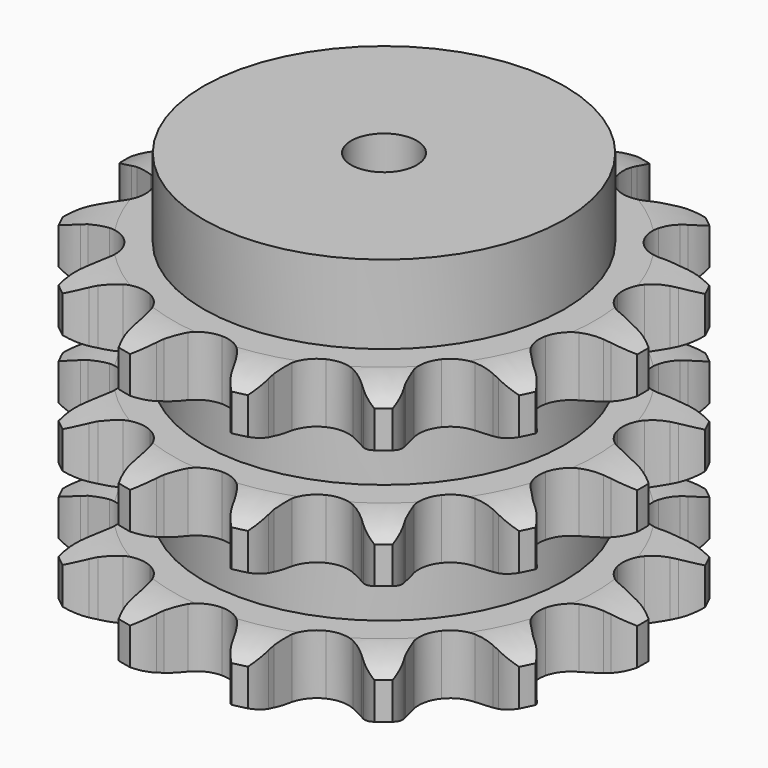
from build123d import *

# Parameters (mm, degrees)
PAD_DEPTH         = 91
SKETCH001_R       = 55
PAD001_DEPTH      = 115
SKETCH002_R       = 10
POCKET_DEPTH      = 0.001
POCKET_DEPTH_BACK = 115.001


with BuildPart() as part:
    # Sprocket → Pad (new body)
    with BuildSketch(Plane.XY):
        with BuildLine():
            ThreePointArc((-18.099318, 79.298294), (-14.280151, 76.270886), (-11.550964, 72.233217))
            Line((-11.550964, 72.233217), (-10.674023, 70.376836))
            ThreePointArc((-10.674023, 70.376836), (-9.212948, 67.717581), (-7.438683, 65.256208))
            ThreePointArc((-7.438683, 65.256208), (-4.115883, 62.656814), (0, 61.730877))
            ThreePointArc((0, 61.730877), (4.115883, 62.656814), (7.438683, 65.256208))
            ThreePointArc((7.438683, 65.256208), (9.212948, 67.717581), (10.674023, 70.376836))
            Line((10.674023, 70.376836), (11.550964, 72.233217))
            ThreePointArc((11.550964, 72.233217), (14.280151, 76.270886), (18.099318, 79.298294))
            ThreePointArc((18.099318, 79.298294), (20.226725, 74.913619), (20.933759, 70.091655))
            Line((20.933759, 70.091655), (20.918402, 68.038623))
            ThreePointArc((20.918402, 68.038623), (21.080977, 65.00878), (21.611586, 62.021335))
            ThreePointArc((21.611586, 62.021335), (23.477491, 58.237653), (26.784024, 55.617599))
            ThreePointArc((26.784024, 55.617599), (30.894055, 54.666024), (35.015629, 55.566288))
            Line((35.015629, 55.566288), (40.152327, 58.776053))
            ThreePointArc((40.152327, 58.776053), (40.936753, 59.438563), (41.747877, 60.068104))
            ThreePointArc((41.747877, 60.068104), (45.958669, 62.521768), (50.713162, 63.592294))
            ThreePointArc((50.713162, 63.592294), (50.727451, 58.718792), (49.272295, 54.067582))
            Line((49.272295, 54.067582), (48.367681, 52.224526))
            ThreePointArc((48.367681, 52.224526), (47.199557, 49.424194), (46.381415, 46.502376))
            ThreePointArc((46.381415, 46.502376), (46.420859, 42.283811), (48.263143, 38.488573))
            ThreePointArc((48.263143, 38.488573), (51.553281, 35.847958), (55.6573, 34.870783))
            Line((55.6573, 34.870783), (61.67797, 35.533952))
            ThreePointArc((61.67797, 35.533952), (62.672166, 35.790503), (63.676112, 36.005767))
            ThreePointArc((63.676112, 36.005767), (68.534509, 36.389448), (73.282643, 35.291061))
            ThreePointArc((73.282643, 35.291061), (71.180983, 30.893987), (67.851848, 27.33476))
            Line((67.851848, 27.33476), (66.237148, 26.066722))
            ThreePointArc((66.237148, 26.066722), (63.969686, 24.05054), (61.964836, 21.773052))
            ThreePointArc((61.964836, 21.773052), (60.170007, 17.955142), (60.183155, 13.736412))
            ThreePointArc((60.183155, 13.736412), (62.001747, 9.929764), (65.275361, 7.268693))
            Line((65.275361, 7.268693), (70.987535, 5.253916))
            ThreePointArc((70.987535, 5.253916), (71.994588, 5.053695), (72.992511, 4.812046))
            ThreePointArc((72.992511, 4.812046), (77.536248, 3.049751), (81.337597, 0))
            ThreePointArc((81.337597, 0), (77.536248, -3.049751), (72.992511, -4.812046))
            Line((72.992511, -4.812046), (70.987535, -5.253916))
            ThreePointArc((70.987535, -5.253916), (68.069833, -6.086619), (65.275361, -7.268693))
            ThreePointArc((65.275361, -7.268693), (62.001747, -9.929764), (60.183155, -13.736412))
            ThreePointArc((60.183155, -13.736412), (60.170007, -17.955142), (61.964836, -21.773052))
            Line((61.964836, -21.773052), (66.237148, -26.066722))
            ThreePointArc((66.237148, -26.066722), (67.057599, -26.684059), (67.851848, -27.33476))
            ThreePointArc((67.851848, -27.33476), (71.180983, -30.893987), (73.282643, -35.291061))
            ThreePointArc((73.282643, -35.291061), (68.534509, -36.389448), (63.676112, -36.005767))
            Line((63.676112, -36.005767), (61.67797, -35.533952))
            ThreePointArc((61.67797, -35.533952), (58.687916, -35.018248), (55.6573, -34.870783))
            ThreePointArc((55.6573, -34.870783), (51.553281, -35.847958), (48.263143, -38.488573))
            ThreePointArc((48.263143, -38.488573), (46.420859, -42.283811), (46.381415, -46.502376))
            Line((46.381415, -46.502376), (48.367681, -52.224526))
            ThreePointArc((48.367681, -52.224526), (48.83903, -53.136708), (49.272295, -54.067582))
            ThreePointArc((49.272295, -54.067582), (50.727451, -58.718792), (50.713162, -63.592294))
            ThreePointArc((50.713162, -63.592294), (45.958669, -62.521768), (41.747877, -60.068104))
            Line((41.747877, -60.068104), (40.152327, -58.776053))
            ThreePointArc((40.152327, -58.776053), (37.682137, -57.014083), (35.015629, -55.566288))
            ThreePointArc((35.015629, -55.566288), (30.894055, -54.666024), (26.784024, -55.617599))
            ThreePointArc((26.784024, -55.617599), (23.477491, -58.237653), (21.611586, -62.021335))
            Line((21.611586, -62.021335), (20.918402, -68.038623))
            ThreePointArc((20.918402, -68.038623), (20.947292, -69.06498), (20.933759, -70.091655))
            ThreePointArc((20.933759, -70.091655), (20.226725, -74.913619), (18.099318, -79.298294))
            ThreePointArc((18.099318, -79.298294), (14.280151, -76.270886), (11.550964, -72.233217))
            Line((11.550964, -72.233217), (10.674023, -70.376836))
            ThreePointArc((10.674023, -70.376836), (9.212948, -67.717581), (7.438683, -65.256208))
            ThreePointArc((7.438683, -65.256208), (4.115883, -62.656814), (0, -61.730877))
            ThreePointArc((0, -61.730877), (-4.115883, -62.656814), (-7.438683, -65.256208))
            Line((-7.438683, -65.256208), (-10.674023, -70.376836))
            ThreePointArc((-10.674023, -70.376836), (-11.093314, -71.314086), (-11.550964, -72.233217))
            ThreePointArc((-11.550964, -72.233217), (-14.280151, -76.270886), (-18.099318, -79.298294))
            ThreePointArc((-18.099318, -79.298294), (-20.226725, -74.913619), (-20.933759, -70.091655))
            Line((-20.933759, -70.091655), (-20.918402, -68.038623))
            ThreePointArc((-20.918402, -68.038623), (-21.080977, -65.00878), (-21.611586, -62.021335))
            ThreePointArc((-21.611586, -62.021335), (-23.477491, -58.237653), (-26.784024, -55.617599))
            ThreePointArc((-26.784024, -55.617599), (-30.894055, -54.666024), (-35.015629, -55.566288))
            Line((-35.015629, -55.566288), (-40.152327, -58.776053))
            ThreePointArc((-40.152327, -58.776053), (-40.936753, -59.438563), (-41.747877, -60.068104))
            ThreePointArc((-41.747877, -60.068104), (-45.958669, -62.521768), (-50.713162, -63.592294))
            ThreePointArc((-50.713162, -63.592294), (-50.727451, -58.718792), (-49.272295, -54.067582))
            Line((-49.272295, -54.067582), (-48.367681, -52.224526))
            ThreePointArc((-48.367681, -52.224526), (-47.199557, -49.424194), (-46.381415, -46.502376))
            ThreePointArc((-46.381415, -46.502376), (-46.420859, -42.283811), (-48.263143, -38.488573))
            ThreePointArc((-48.263143, -38.488573), (-51.553281, -35.847958), (-55.6573, -34.870783))
            Line((-55.6573, -34.870783), (-61.67797, -35.533952))
            ThreePointArc((-61.67797, -35.533952), (-62.672166, -35.790503), (-63.676112, -36.005767))
            ThreePointArc((-63.676112, -36.005767), (-68.534509, -36.389448), (-73.282643, -35.291061))
            ThreePointArc((-73.282643, -35.291061), (-71.180983, -30.893987), (-67.851848, -27.33476))
            Line((-67.851848, -27.33476), (-66.237148, -26.066722))
            ThreePointArc((-66.237148, -26.066722), (-63.969686, -24.05054), (-61.964836, -21.773052))
            ThreePointArc((-61.964836, -21.773052), (-60.170007, -17.955142), (-60.183155, -13.736412))
            ThreePointArc((-60.183155, -13.736412), (-62.001747, -9.929764), (-65.275361, -7.268693))
            Line((-65.275361, -7.268693), (-70.987535, -5.253916))
            ThreePointArc((-70.987535, -5.253916), (-71.994588, -5.053695), (-72.992511, -4.812046))
            ThreePointArc((-72.992511, -4.812046), (-77.536248, -3.049751), (-81.337597, 0))
            ThreePointArc((-81.337597, 0), (-77.536248, 3.049751), (-72.992511, 4.812046))
            Line((-72.992511, 4.812046), (-70.987535, 5.253916))
            ThreePointArc((-70.987535, 5.253916), (-68.069833, 6.086619), (-65.275361, 7.268693))
            ThreePointArc((-65.275361, 7.268693), (-62.001747, 9.929764), (-60.183155, 13.736412))
            ThreePointArc((-60.183155, 13.736412), (-60.170007, 17.955142), (-61.964836, 21.773052))
            Line((-61.964836, 21.773052), (-66.237148, 26.066722))
            ThreePointArc((-66.237148, 26.066722), (-67.057599, 26.684059), (-67.851848, 27.33476))
            ThreePointArc((-67.851848, 27.33476), (-71.180983, 30.893987), (-73.282643, 35.291061))
            ThreePointArc((-73.282643, 35.291061), (-68.534509, 36.389448), (-63.676112, 36.005767))
            Line((-63.676112, 36.005767), (-61.67797, 35.533952))
            ThreePointArc((-61.67797, 35.533952), (-58.687916, 35.018248), (-55.6573, 34.870783))
            ThreePointArc((-55.6573, 34.870783), (-51.553281, 35.847958), (-48.263143, 38.488573))
            ThreePointArc((-48.263143, 38.488573), (-46.420859, 42.283811), (-46.381415, 46.502376))
            Line((-46.381415, 46.502376), (-48.367681, 52.224526))
            ThreePointArc((-48.367681, 52.224526), (-48.83903, 53.136708), (-49.272295, 54.067582))
            ThreePointArc((-49.272295, 54.067582), (-50.727451, 58.718792), (-50.713162, 63.592294))
            ThreePointArc((-50.713162, 63.592294), (-45.958669, 62.521768), (-41.747877, 60.068104))
            Line((-41.747877, 60.068104), (-40.152327, 58.776053))
            ThreePointArc((-40.152327, 58.776053), (-37.682137, 57.014083), (-35.015629, 55.566288))
            ThreePointArc((-35.015629, 55.566288), (-30.894055, 54.666024), (-26.784024, 55.617599))
            ThreePointArc((-26.784024, 55.617599), (-23.477491, 58.237653), (-21.611586, 62.021335))
            Line((-21.611586, 62.021335), (-20.918402, 68.038623))
            ThreePointArc((-20.918402, 68.038623), (-20.947292, 69.06498), (-20.933759, 70.091655))
            ThreePointArc((-20.933759, 70.091655), (-20.226725, 74.913619), (-18.099318, 79.298294))
        make_face()
    extrude(amount=PAD_DEPTH)

    # Sketch → Groove (revolve, cut)
    with BuildSketch(Plane.XZ):
        with BuildLine():
            ThreePointArc((64.348368, 0), (71.831683, 0.887302), (78.9, 3.5))
            Line((78.9, 3.5), (78.9, 14.7))
            ThreePointArc((78.9, 14.7), (71.831683, 17.312698), (64.348368, 18.2))
            Line((55, 18.2), (64.348368, 18.2))
            Line((55, 18.2), (55, 36.4))
            Line((55, 36.4), (64.348368, 36.4))
            ThreePointArc((64.348368, 36.4), (71.831683, 37.287302), (78.9, 39.9))
            Line((78.9, 51.1), (78.9, 39.9))
            ThreePointArc((78.9, 51.1), (71.831683, 53.712698), (64.348368, 54.6))
            Line((55, 54.6), (64.348368, 54.6))
            Line((55, 72.8), (55, 54.6))
            Line((64.348368, 72.8), (55, 72.8))
            ThreePointArc((64.348368, 72.8), (71.831683, 73.687302), (78.9, 76.3))
            Line((78.9, 76.3), (78.9, 87.5))
            ThreePointArc((78.9, 87.5), (71.831683, 90.112698), (64.348368, 91))
            Line((64.348368, 91), (88.9, 91))
            Line((88.9, 91), (88.9, 0))
            Line((64.348368, 0), (88.9, 0))
        make_face()
    revolve(axis=Axis((0, 0, 0), (0, 0, 1)), mode=Mode.SUBTRACT)

    # Sketch001 → Pad001 (join)
    with BuildSketch(Plane.XY):
        Circle(SKETCH001_R)
    extrude(amount=PAD001_DEPTH)

    # Sketch002 → Pocket (cut, two sides)
    with BuildSketch(Plane.XY) as pocket_sk:
        Circle(SKETCH002_R)
    extrude(amount=-POCKET_DEPTH, mode=Mode.SUBTRACT)
    extrude(pocket_sk.sketch, amount=POCKET_DEPTH_BACK, mode=Mode.SUBTRACT)


solid = part.part
